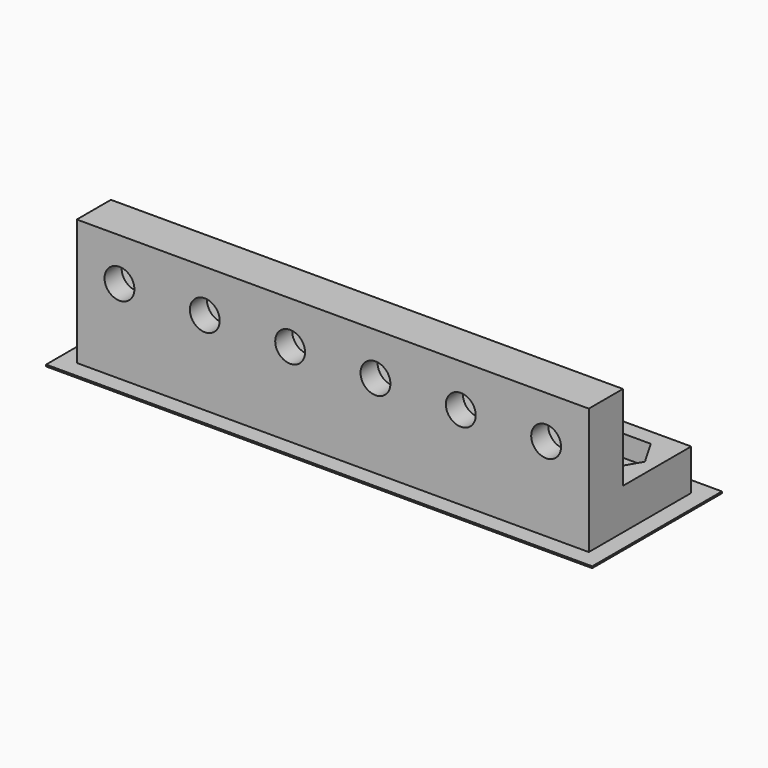
from build123d import *

# Parameters (mm, degrees)
F0_W      = 60
F0_H      = 15
F1_DEPTH  = 5
F2_W      = 60
F2_H      = 5
F3_DEPTH  = 10
F5_DEPTH  = 2.5
F6_R      = 1.75
F7_DEPTH  = 2.5
F9_DEPTH  = 2.5
F10_R     = 1.75
F11_DEPTH = 2.5
F12_W     = 64
F12_H     = 19
F12_W_2   = 60
F12_H_2   = 15
F13_DEPTH = 0.2


with BuildPart() as f1:
    # F0 (on Top) → F1 (new body)
    with BuildSketch(Plane.XY):
        with Locations((30, 7.5)):
            Rectangle(F0_W, F0_H)
    extrude(amount=F1_DEPTH)

    # F2 (on face) → F3 (join)
    with BuildSketch(Plane.XY.offset(5)):
        with Locations((30, 2.5)):
            Rectangle(F2_W, F2_H)
    extrude(amount=F3_DEPTH)

    # F4 (on face) → F5 (cut)
    with BuildSketch(Plane.XY.offset(5)):
        Polygon((8.290897, 10), (6.645448, 12.85), (3.354552, 12.85), (1.709103, 10), (3.354552, 7.15), (6.645448, 7.15), align=None)
        Polygon((18.348632, 10), (16.674316, 12.9), (13.325684, 12.9), (11.651368, 10), (13.325684, 7.1), (16.674316, 7.1), align=None)
        Polygon((28.406367, 10), (26.703183, 12.95), (23.296817, 12.95), (21.593633, 10), (23.296817, 7.05), (26.703183, 7.05), align=None)
        Polygon((38.464102, 10), (36.732051, 13), (33.267949, 13), (31.535898, 10), (33.267949, 7), (36.732051, 7), align=None)
        Polygon((46.760918, 13.05), (43.239082, 13.05), (41.478163, 10), (43.239082, 6.95), (46.760918, 6.95), (48.521837, 10), align=None)
        Polygon((58.579572, 10), (56.789786, 13.1), (53.210214, 13.1), (51.420428, 10), (53.210214, 6.9), (56.789786, 6.9), align=None)
    extrude(amount=-F5_DEPTH, mode=Mode.SUBTRACT)

    # F6 (on face) → F7 (cut, through all)
    with BuildSketch(Plane.XY.offset(2.5)):
        with Locations((5, 10)):
            Circle(F6_R)
        with Locations((15, 10)):
            Circle(F6_R)
        with Locations((25, 10)):
            Circle(F6_R)
        with Locations((35, 10)):
            Circle(F6_R)
        with Locations((45, 10)):
            Circle(F6_R)
        with Locations((55, 10)):
            Circle(F6_R)
    extrude(amount=-F7_DEPTH, mode=Mode.SUBTRACT)

    # F8 (on face) → F9 (cut)
    with BuildSketch(Plane(origin=(0, 5, 0), x_dir=(-1, 0, 0), z_dir=(0, 1, 0))):
        Polygon((-51.420428, 10), (-53.210214, 13.1), (-56.789786, 13.1), (-58.579572, 10), (-56.789786, 6.9), (-53.210214, 6.9), align=None)
        Polygon((-43.239082, 13.05), (-46.760918, 13.05), (-48.521837, 10), (-46.760918, 6.95), (-43.239082, 6.95), (-41.478163, 10), align=None)
        Polygon((-33.267949, 13), (-36.732051, 13), (-38.464102, 10), (-36.732051, 7), (-33.267949, 7), (-31.535898, 10), align=None)
        Polygon((-23.296817, 12.95), (-26.703183, 12.95), (-28.406367, 10), (-26.703183, 7.05), (-23.296817, 7.05), (-21.593633, 10), align=None)
        Polygon((-13.325684, 12.9), (-16.674316, 12.9), (-18.348632, 10), (-16.674316, 7.1), (-13.325684, 7.1), (-11.651368, 10), align=None)
        Polygon((-1.709103, 10), (-3.354552, 12.85), (-6.645448, 12.85), (-8.290897, 10), (-6.645448, 7.15), (-3.354552, 7.15), align=None)
    extrude(amount=-F9_DEPTH, mode=Mode.SUBTRACT)

    # F10 (on face) → F11 (cut, through all)
    with BuildSketch(Plane(origin=(0, 2.5, 0), x_dir=(-1, 0, 0), z_dir=(0, 1, 0))):
        with Locations((-55, 10)):
            Circle(F10_R)
        with Locations((-45, 10)):
            Circle(F10_R)
        with Locations((-35, 10)):
            Circle(F10_R)
        with Locations((-25, 10)):
            Circle(F10_R)
        with Locations((-15, 10)):
            Circle(F10_R)
        with Locations((-5, 10)):
            Circle(F10_R)
    extrude(amount=-F11_DEPTH, mode=Mode.SUBTRACT)

    # F12 (on Top) → F13 (join)
    with BuildSketch(Plane.XY):
        with Locations((30, 7.5)):
            Rectangle(F12_W, F12_H)
        with Locations((30, 7.5)):
            Rectangle(F12_W_2, F12_H_2, mode=Mode.SUBTRACT)
    extrude(amount=F13_DEPTH)


solid = f1.part
